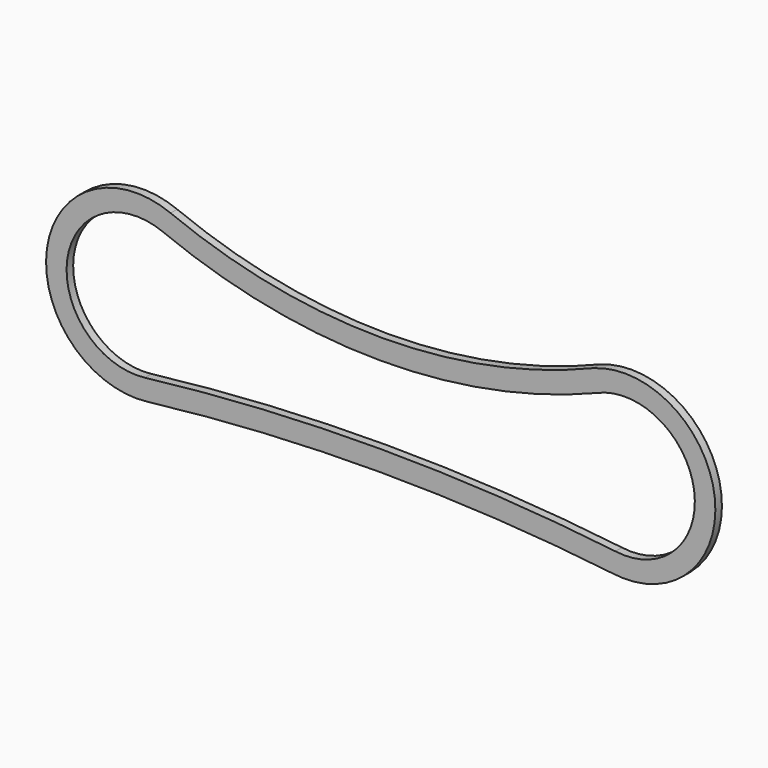
from build123d import *

# Parameters (mm, degrees)
F1_DEPTH = 20


with BuildPart() as f1:
    # F0 (on Front) → F1 (new body)
    with BuildSketch(Plane.XZ):
        with BuildLine():
            ThreePointArc((518.724023, 187.965446), (4.041729, 85.545128), (-511.091082, 185.674901))
            ThreePointArc((-511.091082, 185.674901), (-812.569107, 10.985399), (-568.246652, -237.433521))
            ThreePointArc((-568.246652, -237.433521), (-0.957332, -203.909619), (566.359102, -236.971489))
            ThreePointArc((566.359102, -236.971489), (814.941489, 6.032785), (518.724023, 187.965446))
        make_face()
        with BuildLine():
            ThreePointArc((-574.115356, -187.779132), (-763.019156, 4.291947), (-529.924149, 139.357349))
            ThreePointArc((-529.924149, 139.357349), (-1.901514, 35.544787), (526.546569, 137.169463))
            ThreePointArc((526.546569, 137.169463), (764.619372, 5.4476), (572.650794, -187.36675))
            ThreePointArc((572.650794, -187.36675), (-0.744387, -153.909534), (-574.115356, -187.779132))
        make_face(mode=Mode.SUBTRACT)
    extrude(amount=F1_DEPTH)


solid = f1.part
